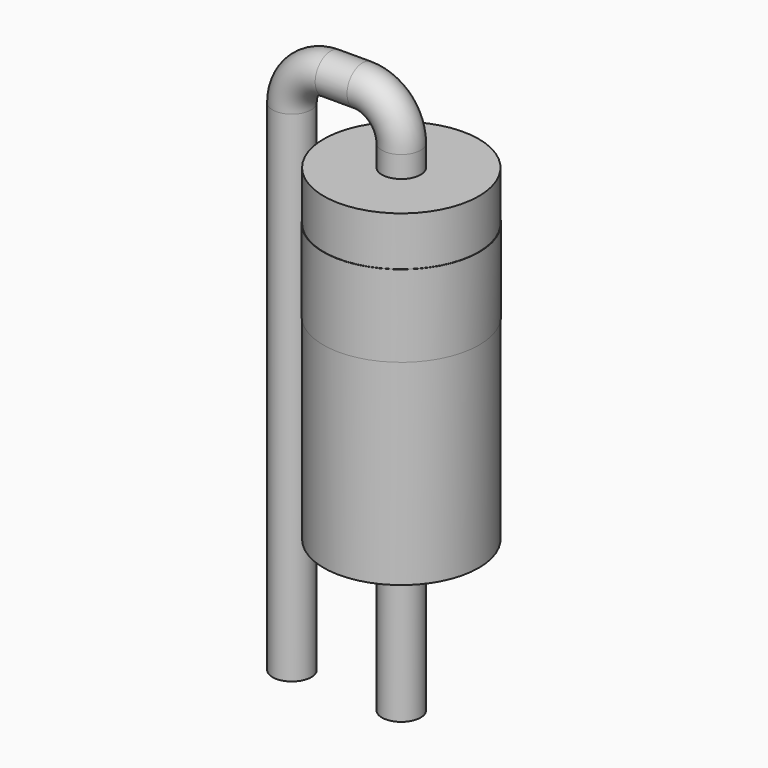
from build123d import *

# Parameters (mm, degrees)
SKETCH001_R = 0.45
SKETCH002_W = 1.8
SKETCH002_H = 7.6
SKETCH003_W = 1.81
SKETCH003_H = 1.9


with BuildPart() as sweep_body:
    # Sweep: sweep along a path in Sketch
    with BuildLine(Plane.XZ) as sweep_path:
        Line((0, -3), (0, 8.6))
        ThreePointArc((0, 8.6), (0.263604, 9.236396), (0.9, 9.5))
        Line((0.9, 9.5), (1.64, 9.5))
        ThreePointArc((1.64, 9.5), (2.276396, 9.236396), (2.54, 8.6))
        Line((2.54, 8.6), (2.54, -3))
    # Sketch001 → Sweep (sweep)
    with BuildSketch(Plane.XY):
        Circle(SKETCH001_R)
    sweep(path=sweep_path.line)


with BuildPart() as revolution:
    # Sketch002 → Revolution (revolve)
    with BuildSketch(Plane.XZ):
        with Locations((3.44, 4.3)):
            Rectangle(SKETCH002_W, SKETCH002_H)
    revolve(axis=Axis((2.54, 0, 0.5), (0, 0, 1)))


with BuildPart() as revolution001:
    # Sketch003 → Revolution001 (revolve)
    with BuildSketch(Plane.XZ):
        with Locations((3.445, 6.01)):
            Rectangle(SKETCH003_W, SKETCH003_H)
    revolve(axis=Axis((2.54, 0, 5.06), (0, 0, 1)))


solid = Compound([sweep_body.part, revolution.part, revolution001.part])
